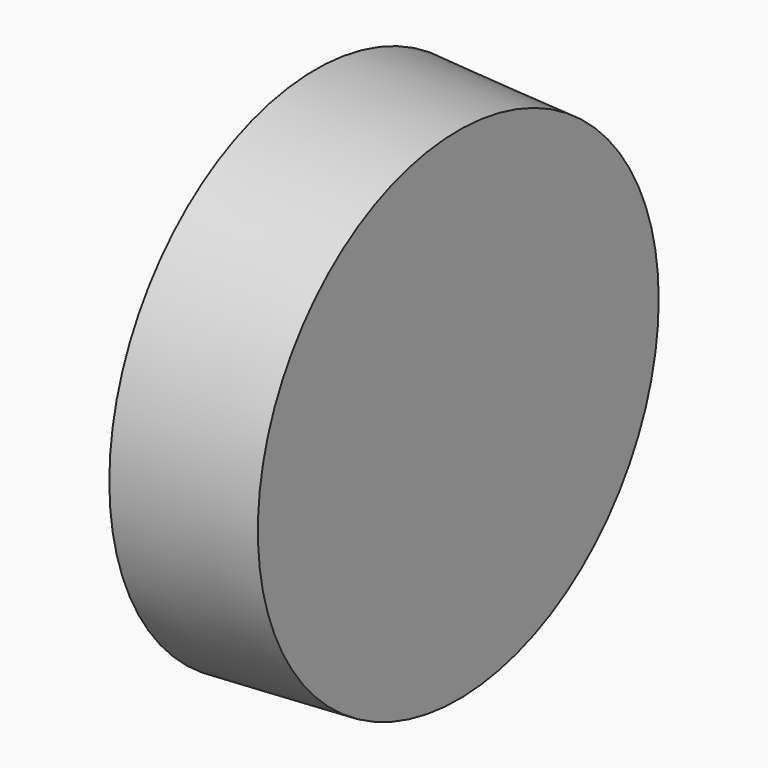
from build123d import *

# Parameters (mm, degrees)
F0_R     = 44.6297416067
F1_DEPTH = 25.4
F1_TAPER = -3


with BuildPart() as f1:
    # F0 (on Right) → F1 (new body)
    with BuildSketch(Plane.YZ):
        with Locations((-44.6225302508, 40.8508908004)):
            Circle(F0_R)
    extrude(amount=-F1_DEPTH, taper=F1_TAPER)


solid = f1.part
